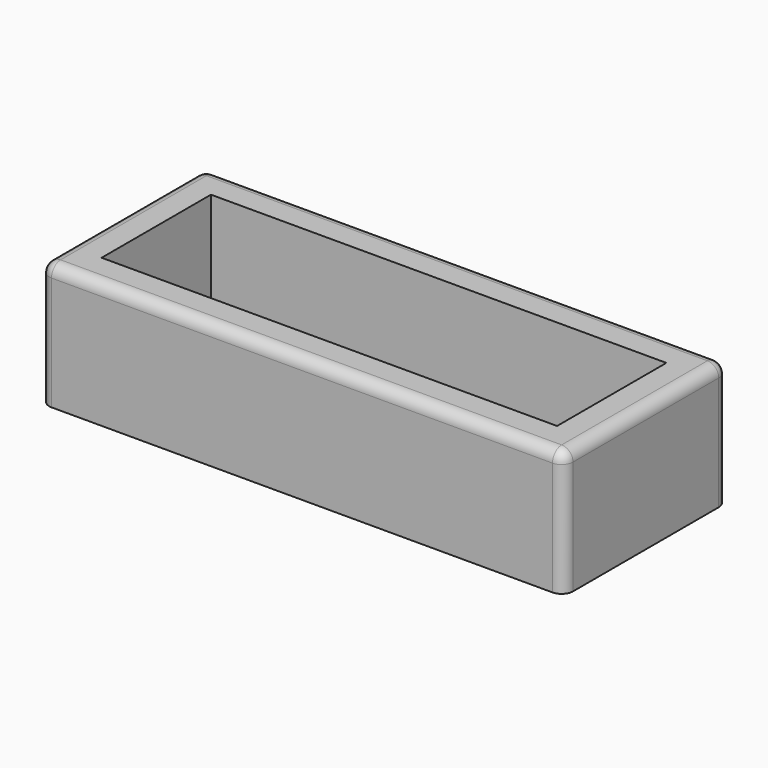
from build123d import *

# Parameters (mm, degrees)
F0_W     = 46
F0_H     = 18
F0_W_2   = 40
F0_H_2   = 12
F1_DEPTH = 11
F2_W     = 40
F2_H     = 12
F3_DEPTH = 3
F4_R     = 1


with BuildPart() as f1:
    # F0 (on Top) → F1 (new body)
    with BuildSketch(Plane.XY):
        with Locations((23, 9)):
            Rectangle(F0_W, F0_H)
        with Locations((23, 9)):
            Rectangle(F0_W_2, F0_H_2, mode=Mode.SUBTRACT)
    extrude(amount=F1_DEPTH)

    # F2 (on Top) → F3 (join)
    with BuildSketch(Plane.XY):
        with Locations((23, 9)):
            Rectangle(F2_W, F2_H)
    extrude(amount=F3_DEPTH)

    # F4
    f4_edges = [f1.edges().sort_by_distance(p)[0] for p in [
        (46, 18, 5.5),
        (46, 0, 5.5),
        (0, 0, 5.5),
        (0, 18, 5.5),
        (23, 18, 11),
        (0, 9, 11),
        (23, 0, 11),
        (46, 9, 11),
    ]]
    fillet(f4_edges, radius=F4_R)


solid = f1.part
